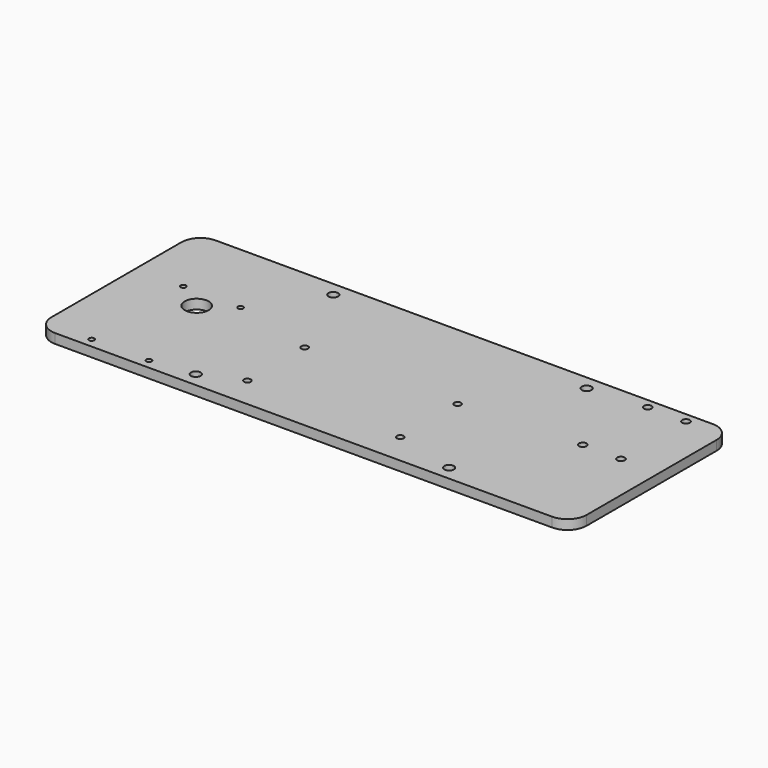
from build123d import *

# Parameters (mm, degrees)
F0_W      = 177.8
F0_H      = 66.675
F1_DEPTH  = 3.175
F3_DEPTH  = 3.176
F5_DEPTH  = 3.176
F6_R      = 1.2573
F7_DEPTH  = 3.176
F8_R      = 1.5875
F9_DEPTH  = 3.176
F10_R     = 0.889
F11_DEPTH = 3.176
F12_R     = 3.9751
F13_DEPTH = 3.176
F14_R     = 1.1303
F15_DEPTH = 3.176


with BuildPart() as f1:
    # F0 (on Top) → F1 (new body)
    with BuildSketch(Plane.XY):
        Rectangle(F0_W, F0_H)
    extrude(amount=F1_DEPTH)

    # F2 (on face) → F3 (cut, through all)
    with BuildSketch(Plane.XY.offset(3.175)):
        with BuildLine():
            ThreePointArc((-88.9, 26.9875), (-87.040128, 31.477628), (-82.55, 33.3375))
            Line((-82.55, 33.3375), (-88.9, 33.3375))
            Line((-88.9, 33.3375), (-88.9, 26.9875))
        make_face()
    extrude(amount=-F3_DEPTH, mode=Mode.SUBTRACT)

    # F4 (on face) → F5 (cut, through all)
    with BuildSketch(Plane.XY.offset(3.175)):
        with BuildLine():
            Line((88.9, 33.3375), (82.55, 33.3375))
            ThreePointArc((82.55, 33.3375), (87.040128, 31.477628), (88.9, 26.9875))
            Line((88.9, 26.9875), (88.9, 33.3375))
        make_face()
        with BuildLine():
            ThreePointArc((88.9, -26.9875), (87.040128, -31.477628), (82.55, -33.3375))
            Line((82.55, -33.3375), (88.9, -33.3375))
            Line((88.9, -33.3375), (88.9, -26.9875))
        make_face()
        with BuildLine():
            ThreePointArc((-82.55, -33.3375), (-87.040128, -31.477628), (-88.9, -26.9875))
            Line((-88.9, -26.9875), (-88.9, -33.3375))
            Line((-88.9, -33.3375), (-82.55, -33.3375))
        make_face()
    extrude(amount=-F5_DEPTH, mode=Mode.SUBTRACT)

    # F6 (on face) → F7 (cut, through all)
    with BuildSketch(Plane.XY.offset(3.175)):
        with Locations((63.5, 30.1625)):
            Circle(F6_R)
        with Locations((76.2, 30.1625)):
            Circle(F6_R)
        with Locations((63.5, 3.1623)):
            Circle(F6_R)
        with Locations((76.2, 3.1623)):
            Circle(F6_R)
    extrude(amount=-F7_DEPTH, mode=Mode.SUBTRACT)

    # F8 (on face) → F9 (cut, through all)
    with BuildSketch(Plane.XY.offset(3.175)):
        with Locations((44.4754, 28.5623)):
            Circle(F8_R)
        with Locations((-39.6748, 28.5623)):
            Circle(F8_R)
        with Locations((-39.6748, -28.5623)):
            Circle(F8_R)
        with Locations((44.4754, -28.5623)):
            Circle(F8_R)
    extrude(amount=-F9_DEPTH, mode=Mode.SUBTRACT)

    # F10 (on face) → F11 (cut, through all)
    with BuildSketch(Plane.XY.offset(3.175)):
        with Locations((-73.025, 7.9375)):
            Circle(F10_R)
        with Locations((-53.975, 7.9375)):
            Circle(F10_R)
        with Locations((-73.025, -30.1625)):
            Circle(F10_R)
        with Locations((-53.975, -30.1625)):
            Circle(F10_R)
    extrude(amount=-F11_DEPTH, mode=Mode.SUBTRACT)

    # F12 (on face) → F13 (cut, through all)
    with BuildSketch(Plane.XY.offset(3.175)):
        with Locations((-63.5, 1.5875)):
            Circle(F12_R)
    extrude(amount=-F13_DEPTH, mode=Mode.SUBTRACT)

    # F14 (on face) → F15 (cut, through all)
    with BuildSketch(Plane.XY.offset(3.175)):
        with Locations((-26.9748, 0.8001)):
            Circle(F14_R)
        with Locations((23.8252, 0.8001)):
            Circle(F14_R)
        with Locations((23.8252, -23.0251)):
            Circle(F14_R)
        with Locations((-26.9748, -23.0251)):
            Circle(F14_R)
    extrude(amount=-F15_DEPTH, mode=Mode.SUBTRACT)


solid = f1.part
